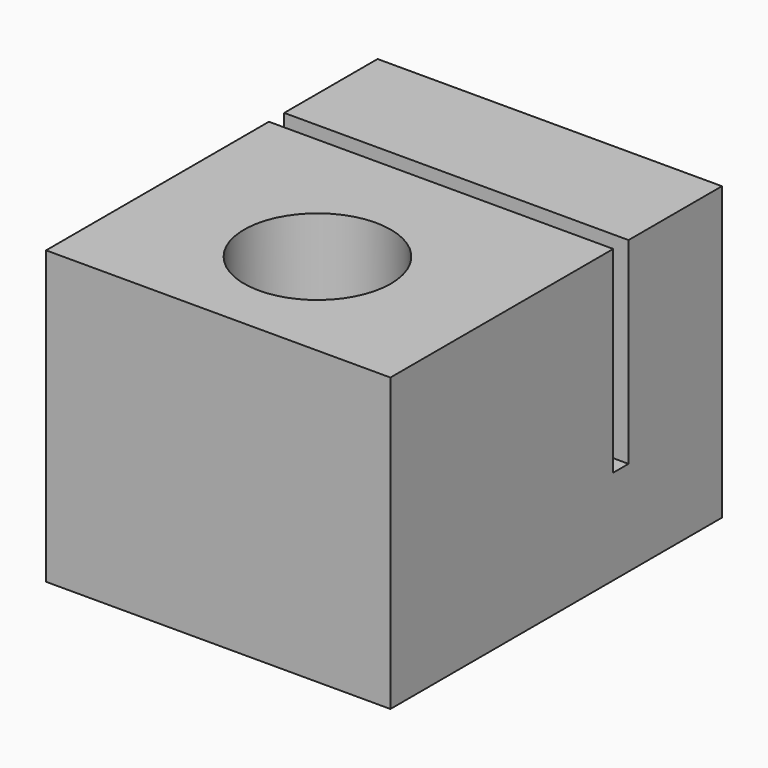
from build123d import *

# Parameters (mm, degrees)
F0_W     = 23.6
F0_H     = 28.4
F1_DEPTH = 20
F2_W     = 23.6
F2_H     = 1.31
F3_DEPTH = 13.5
F2_R     = 5.025
F4_DEPTH = 20.001


with BuildPart() as f1:
    # F0 (on Top) → F1 (new body)
    with BuildSketch(Plane.XY):
        Rectangle(F0_W, F0_H)
    extrude(amount=F1_DEPTH)

    # F2 (on face) → F3 (cut)
    with BuildSketch(Plane.XY.offset(20)):
        with Locations((0, 5.545)):
            Rectangle(F2_W, F2_H)
    extrude(amount=-F3_DEPTH, mode=Mode.SUBTRACT)

    # F2 (on face) → F4 (cut, through all)
    with BuildSketch(Plane.XY.offset(20)):
        with Locations((0, -5.7)):
            Circle(F2_R)
    extrude(amount=-F4_DEPTH, mode=Mode.SUBTRACT)


solid = f1.part
